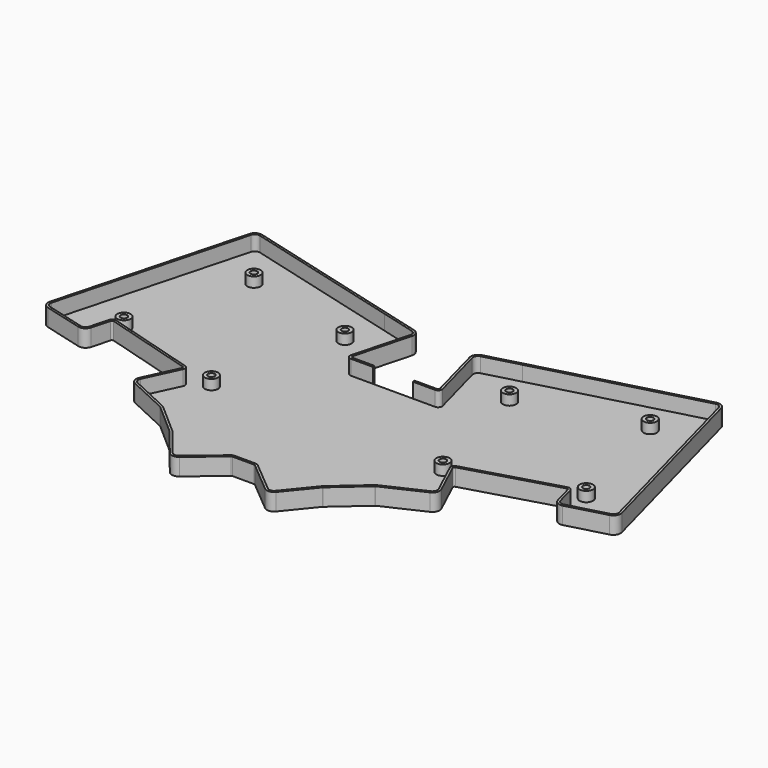
from build123d import *

# Parameters (mm, degrees)
PAD_DEPTH     = 7.7
PAD001_DEPTH  = 1
SKETCH001_R   = 3
SKETCH001_R_2 = 1.5
PAD002_DEPTH  = 5.5
SKETCH003_W   = 18
SKETCH003_H   = 10
POCKET_DEPTH  = 5


with BuildPart() as part:
    # Sketch → Pad (new body)
    with BuildSketch(Plane.XY):
        with BuildLine():
            Line((43.737173, -175.810615), (66.25443, -91.775068))
            ThreePointArc((70.23485, -89.476971), (67.768688, -89.801647), (66.25443, -91.775068))
            Line((70.23485, -89.476971), (141.713362, -108.62958))
            Line((141.713362, -108.62958), (157.168175, -112.770685))
            ThreePointArc((159.466272, -116.751106), (159.141595, -114.284944), (157.168175, -112.770685))
            Line((159.466272, -116.751106), (152.76854, -141.747382))
            ThreePointArc((152.76854, -141.747382), (152.897969, -142.398067), (153.492984, -142.691496))
            Line((153.492984, -142.691496), (191.374453, -142.691496))
            ThreePointArc((191.374453, -142.691496), (191.969468, -142.398067), (192.098897, -141.747382))
            Line((192.098897, -141.747382), (185.401165, -116.751106))
            ThreePointArc((187.699262, -112.770685), (185.725842, -114.284944), (185.401165, -116.751106))
            Line((187.699262, -112.770685), (203.154075, -108.62958))
            Line((203.154075, -108.62958), (274.632587, -89.476971))
            ThreePointArc((278.613007, -91.775068), (277.098748, -89.801647), (274.632587, -89.476971))
            Line((278.613007, -91.775068), (301.130264, -175.810615))
            ThreePointArc((298.832167, -179.791036), (300.805588, -178.276777), (301.130264, -175.810615))
            Line((298.832167, -179.791036), (281.445502, -184.449778))
            ThreePointArc((277.465082, -182.151681), (278.979341, -184.125102), (281.445502, -184.449778))
            Line((277.465082, -182.151681), (275.258165, -173.915358))
            ThreePointArc((275.258165, -173.915358), (274.901292, -173.45572), (274.32314, -173.389642))
            Line((274.32314, -173.389642), (233.82036, -185.238407))
            ThreePointArc((233.82036, -185.238407), (233.34764, -185.649044), (233.351209, -186.275201))
            Line((233.351209, -186.275201), (240.396653, -201.384205))
            ThreePointArc((238.824662, -205.703214), (240.505154, -203.869279), (240.396653, -201.384205))
            Line((238.824662, -205.703214), (220.957469, -214.034823))
            ThreePointArc((220.957469, -214.034823), (220.86452, -214.086484), (220.779812, -214.150772))
            Line((220.779812, -214.150772), (206.949101, -226.284805))
            ThreePointArc((206.949101, -226.284805), (206.903712, -226.328116), (206.862102, -226.375069))
            Line((206.862102, -226.375069), (196.344764, -239.293465))
            ThreePointArc((191.735354, -239.7312), (194.131669, -240.476999), (196.344764, -239.293465))
            Line((191.735354, -239.7312), (177.761035, -228.005354))
            ThreePointArc((177.761035, -228.005354), (177.53546, -227.875118), (177.278944, -227.829888))
            Line((177.278944, -227.829888), (167.588493, -227.829888))
            ThreePointArc((167.588493, -227.829888), (167.331977, -227.875118), (167.106402, -228.005354))
            Line((167.106402, -228.005354), (153.132083, -239.7312))
            ThreePointArc((148.522673, -239.293465), (150.735768, -240.476999), (153.132083, -239.7312))
            Line((148.522673, -239.293465), (138.005335, -226.375069))
            ThreePointArc((138.005335, -226.375069), (137.963725, -226.328116), (137.918336, -226.284805))
            Line((137.918336, -226.284805), (124.087625, -214.150772))
            ThreePointArc((124.087625, -214.150772), (124.002917, -214.086484), (123.909968, -214.034823))
            Line((123.909968, -214.034823), (106.042775, -205.703214))
            ThreePointArc((104.470784, -201.384205), (104.362283, -203.869279), (106.042775, -205.703214))
            Line((104.470784, -201.384205), (111.516228, -186.275201))
            ThreePointArc((111.516228, -186.275201), (111.519797, -185.649044), (111.047077, -185.238407))
            Line((111.047077, -185.238407), (70.544297, -173.389642))
            ThreePointArc((70.544297, -173.389642), (69.966145, -173.45572), (69.609272, -173.915358))
            Line((69.609272, -173.915358), (67.402355, -182.151681))
            ThreePointArc((63.421935, -184.449778), (65.888096, -184.125102), (67.402355, -182.151681))
            Line((63.421935, -184.449778), (46.03527, -179.791036))
            ThreePointArc((43.737173, -175.810615), (44.061849, -178.276777), (46.03527, -179.791036))
        make_face()
        with BuildLine():
            Line((44.703098, -176.069434), (67.220355, -92.033887))
            ThreePointArc((69.976031, -90.442897), (68.268688, -90.667673), (67.220355, -92.033887))
            Line((69.976031, -90.442897), (141.454542, -109.595506))
            Line((141.454542, -109.595506), (156.909356, -113.736611))
            ThreePointArc((158.500346, -116.492287), (158.27557, -114.784944), (156.909356, -113.736611))
            Line((158.500346, -116.492287), (151.802614, -141.488563))
            ThreePointArc((151.802614, -141.488563), (152.104616, -143.006829), (153.492984, -143.691496))
            Line((153.492984, -143.691496), (191.374453, -143.691496))
            ThreePointArc((191.374453, -143.691496), (192.762821, -143.006829), (193.064823, -141.488563))
            Line((193.064823, -141.488563), (186.367091, -116.492287))
            ThreePointArc((187.958081, -113.736611), (186.591867, -114.784944), (186.367091, -116.492287))
            Line((187.958081, -113.736611), (203.412895, -109.595506))
            Line((203.412895, -109.595506), (274.891406, -90.442897))
            ThreePointArc((277.647082, -92.033887), (276.598749, -90.667673), (274.891406, -90.442897))
            Line((277.647082, -92.033887), (300.164339, -176.069434))
            ThreePointArc((298.573348, -178.82511), (299.939563, -177.776777), (300.164339, -176.069434))
            Line((298.573348, -178.82511), (281.186683, -183.483853))
            ThreePointArc((278.431007, -181.892862), (279.479341, -183.259077), (281.186683, -183.483853))
            Line((278.431007, -181.892862), (276.224091, -173.656539))
            ThreePointArc((276.224091, -173.656539), (275.391386, -172.584051), (274.042366, -172.429868))
            Line((274.042366, -172.429868), (233.539585, -184.278633))
            ThreePointArc((233.539585, -184.278633), (232.436573, -185.236785), (232.444902, -186.697819))
            Line((232.444902, -186.697819), (239.490346, -201.806823))
            ThreePointArc((238.402044, -204.796906), (239.565462, -203.527259), (239.490346, -201.806823))
            Line((238.402044, -204.796906), (220.534851, -213.128515))
            ThreePointArc((220.534851, -213.128515), (220.31797, -213.249058), (220.120318, -213.399062))
            Line((220.120318, -213.399062), (206.289607, -225.533095))
            ThreePointArc((206.289607, -225.533095), (206.1837, -225.634155), (206.08661, -225.743713))
            Line((206.08661, -225.743713), (195.569271, -238.662108))
            ThreePointArc((192.378141, -238.965155), (194.037129, -239.481478), (195.569271, -238.662108))
            Line((192.378141, -238.965155), (178.403823, -227.23931))
            ThreePointArc((178.403823, -227.23931), (177.87748, -226.935426), (177.278944, -226.829888))
            Line((177.278944, -226.829888), (167.588493, -226.829888))
            ThreePointArc((167.588493, -226.829888), (166.989957, -226.935426), (166.463614, -227.23931))
            Line((166.463614, -227.23931), (152.489296, -238.965155))
            ThreePointArc((149.298166, -238.662108), (150.830308, -239.481478), (152.489296, -238.965155))
            Line((149.298166, -238.662108), (138.780827, -225.743713))
            ThreePointArc((138.780827, -225.743713), (138.683737, -225.634155), (138.57783, -225.533095))
            Line((138.57783, -225.533095), (124.747119, -213.399062))
            ThreePointArc((124.747119, -213.399062), (124.549467, -213.249058), (124.332586, -213.128515))
            Line((124.332586, -213.128515), (106.465393, -204.796906))
            ThreePointArc((105.377091, -201.806823), (105.301976, -203.527259), (106.465393, -204.796906))
            Line((105.377091, -201.806823), (112.422535, -186.697819))
            ThreePointArc((112.422535, -186.697819), (112.430864, -185.236785), (111.327852, -184.278633))
            Line((111.327852, -184.278633), (70.825071, -172.429868))
            ThreePointArc((70.825071, -172.429868), (69.476051, -172.584051), (68.643346, -173.656539))
            Line((68.643346, -173.656539), (66.43643, -181.892862))
            ThreePointArc((63.680754, -183.483853), (65.388096, -183.259077), (66.43643, -181.892862))
            Line((63.680754, -183.483853), (46.294089, -178.82511))
            ThreePointArc((44.703098, -176.069434), (44.927874, -177.776777), (46.294089, -178.82511))
        make_face(mode=Mode.SUBTRACT)
    extrude(amount=PAD_DEPTH)

    # Sketch002 → Pad001 (join)
    with BuildSketch(Plane.XY):
        with BuildLine():
            ThreePointArc((44.461617, -176.004729), (44.711368, -177.901777), (46.229384, -179.066591))
            Line((63.616049, -183.725334), (46.229384, -179.066591))
            ThreePointArc((63.616049, -183.725334), (65.513096, -183.475583), (66.677911, -181.957567))
            Line((68.884827, -173.721244), (66.677911, -181.957567))
            ThreePointArc((70.754877, -172.669811), (69.598574, -172.801968), (68.884827, -173.721244))
            Line((111.257658, -184.518577), (70.754877, -172.669811))
            ThreePointArc((112.195958, -186.592165), (112.203097, -185.33985), (111.257658, -184.518577))
            Line((105.150514, -201.701168), (112.195958, -186.592165))
            ThreePointArc((105.150514, -201.701168), (105.067052, -203.612764), (106.359738, -205.023483))
            Line((124.226931, -213.355092), (106.359738, -205.023483))
            ThreePointArc((124.582245, -213.586989), (124.412829, -213.458414), (124.226931, -213.355092))
            Line((138.412957, -225.721022), (124.582245, -213.586989))
            ThreePointArc((138.586954, -225.901552), (138.503734, -225.807645), (138.412957, -225.721022))
            Line((149.104292, -238.819947), (138.586954, -225.901552))
            ThreePointArc((149.104292, -238.819947), (150.806673, -239.730358), (152.649993, -239.156666))
            Line((166.624311, -227.430821), (152.649993, -239.156666))
            ThreePointArc((167.588493, -227.079888), (167.075462, -227.170349), (166.624311, -227.430821))
            Line((177.278944, -227.079888), (167.588493, -227.079888))
            ThreePointArc((178.243126, -227.430821), (177.791975, -227.170349), (177.278944, -227.079888))
            Line((192.217444, -239.156666), (178.243126, -227.430821))
            ThreePointArc((192.217444, -239.156666), (194.060764, -239.730358), (195.763145, -238.819947))
            Line((206.280483, -225.901552), (195.763145, -238.819947))
            ThreePointArc((206.45448, -225.721022), (206.363703, -225.807645), (206.280483, -225.901552))
            Line((220.285192, -213.586989), (206.45448, -225.721022))
            ThreePointArc((220.640506, -213.355092), (220.454608, -213.458414), (220.285192, -213.586989))
            Line((238.507699, -205.023483), (220.640506, -213.355092))
            ThreePointArc((238.507699, -205.023483), (239.800385, -203.612764), (239.716923, -201.701168))
            Line((232.671479, -186.592165), (239.716923, -201.701168))
            ThreePointArc((233.609779, -184.518577), (232.66434, -185.33985), (232.671479, -186.592165))
            Line((274.11256, -172.669811), (233.609779, -184.518577))
            ThreePointArc((275.98261, -173.721244), (275.268863, -172.801968), (274.11256, -172.669811))
            Line((278.189526, -181.957567), (275.98261, -173.721244))
            ThreePointArc((278.189526, -181.957567), (279.354341, -183.475583), (281.251388, -183.725334))
            Line((298.638053, -179.066591), (281.251388, -183.725334))
            ThreePointArc((298.638053, -179.066591), (300.156069, -177.901777), (300.40582, -176.004729))
            Line((277.888563, -91.969182), (300.40582, -176.004729))
            ThreePointArc((277.888563, -91.969182), (276.723749, -90.451166), (274.826701, -90.201415))
            Line((203.34819, -109.354024), (274.826701, -90.201415))
            Line((187.893377, -113.495129), (203.34819, -109.354024))
            ThreePointArc((187.893377, -113.495129), (186.375361, -114.659944), (186.12561, -116.556991))
            Line((192.823342, -141.553267), (186.12561, -116.556991))
            ThreePointArc((191.374453, -143.441496), (192.564483, -142.854638), (192.823342, -141.553267))
            Line((153.492984, -143.441496), (191.374453, -143.441496))
            ThreePointArc((152.044095, -141.553267), (152.302954, -142.854638), (153.492984, -143.441496))
            Line((158.741827, -116.556991), (152.044095, -141.553267))
            ThreePointArc((158.741827, -116.556991), (158.492076, -114.659944), (156.97406, -113.495129))
            Line((141.519247, -109.354024), (156.97406, -113.495129))
            Line((70.040736, -90.201415), (141.519247, -109.354024))
            ThreePointArc((70.040736, -90.201415), (68.143688, -90.451166), (66.978874, -91.969182))
            Line((44.461617, -176.004729), (66.978874, -91.969182))
        make_face()
    extrude(amount=PAD001_DEPTH)

    # Sketch001 → Pad002 (join)
    with BuildSketch(Plane.XY):
        with Locations((83.260414, -110.411564)):
            Circle(SKETCH001_R)
        with Locations((83.260414, -110.411564)):
            Circle(SKETCH001_R_2, mode=Mode.SUBTRACT)
        with Locations((68.454384, -165.018478)):
            Circle(SKETCH001_R)
        with Locations((68.454384, -165.018478)):
            Circle(SKETCH001_R_2, mode=Mode.SUBTRACT)
        with Locations((135.420409, -124.387792)):
            Circle(SKETCH001_R)
        with Locations((135.420409, -124.387792)):
            Circle(SKETCH001_R_2, mode=Mode.SUBTRACT)
        with Locations((120.337211, -180.679052)):
            Circle(SKETCH001_R)
        with Locations((120.337211, -180.679052)):
            Circle(SKETCH001_R_2, mode=Mode.SUBTRACT)
        with Locations((261.607023, -110.411564)):
            Circle(SKETCH001_R)
        with Locations((261.607023, -110.411564)):
            Circle(SKETCH001_R_2, mode=Mode.SUBTRACT)
        with Locations((276.425873, -164.919128)):
            Circle(SKETCH001_R)
        with Locations((276.425873, -164.919128)):
            Circle(SKETCH001_R_2, mode=Mode.SUBTRACT)
        with Locations((209.447028, -124.387792)):
            Circle(SKETCH001_R)
        with Locations((209.447028, -124.387792)):
            Circle(SKETCH001_R_2, mode=Mode.SUBTRACT)
        with Locations((224.530226, -180.679052)):
            Circle(SKETCH001_R)
        with Locations((224.530226, -180.679052)):
            Circle(SKETCH001_R_2, mode=Mode.SUBTRACT)
    extrude(amount=PAD002_DEPTH)

    # Sketch003 (on Face56 of Pad002) → Pocket (cut)
    with BuildSketch(Plane.XZ.offset(143.691496)):
        with Locations((172.433718, 5)):
            Rectangle(SKETCH003_W, SKETCH003_H)
    extrude(amount=-POCKET_DEPTH, mode=Mode.SUBTRACT)


with BuildPart() as part_1:
    # Body placement: moved
    add(part.part.moved(Location((-173, 160, 0))))


solid = part_1.part
